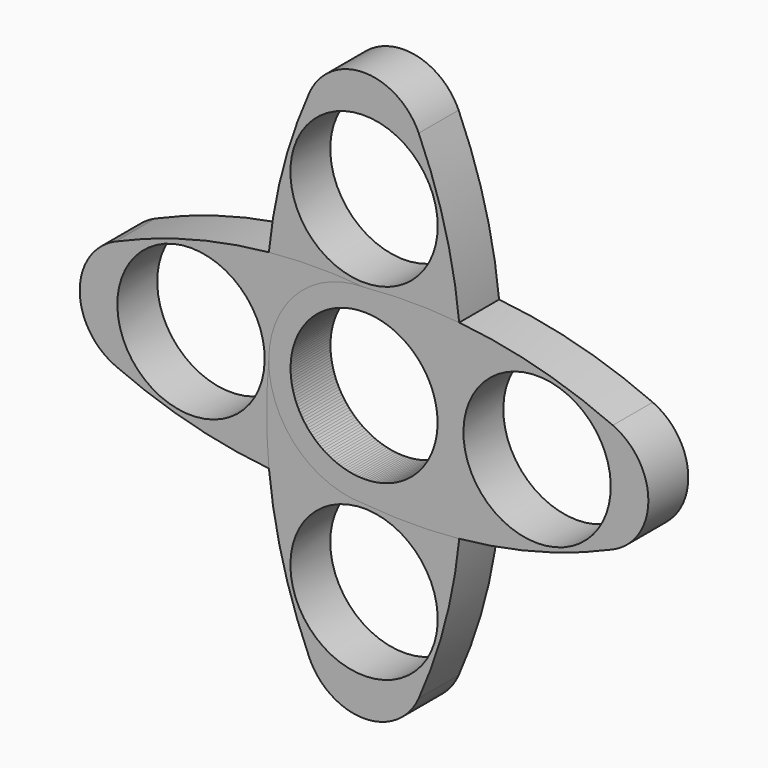
from build123d import *

# Parameters (mm, degrees)
F0_R     = 11.083206
F0_R_2   = 11.069476
F1_DEPTH = 7.5
F2_ANGLE = 90
F3_ANGLE = 90
F4_ANGLE = 90
F5_R     = 9


with BuildPart() as f1:
    # F0 (on Front) → F1 (new body)
    with BuildSketch(Plane.XZ):
        with BuildLine():
            ThreePointArc((-14.340545, 0), (0, 14.340545), (14.340545, 0))
            ThreePointArc((14.340545, 0), (11.929337, 27.099992), (0, 51.552281))
            ThreePointArc((0, 51.552281), (-11.933436, 27.101132), (-14.340545, 0))
        make_face()
        with Locations((0, 26.033875)):
            Circle(F0_R, mode=Mode.SUBTRACT)
        with BuildLine():
            ThreePointArc((-14.340545, 0), (0, -14.340545), (14.340545, 0))
            ThreePointArc((14.340545, 0), (0, 14.340545), (-14.340545, 0))
        make_face()
        Circle(F0_R_2, mode=Mode.SUBTRACT)
    extrude(amount=F1_DEPTH)

    # F5
    f5_edges = [f1.edges().sort_by_distance(p)[0] for p in [
        (0, -3.75, 51.552281),
    ]]
    fillet(f5_edges, radius=F5_R)


with BuildPart() as f2_1:
    # F2: copy of F1
    add(f1.part.rotate(Axis((0, -7.5, 0), (0, -1, 0)), F2_ANGLE))


with BuildPart() as f3_1:
    # F3: copy of F2_1
    add(f2_1.part.rotate(Axis((0, -7.5, 0), (0, -1, 0)), F3_ANGLE))


with BuildPart() as f4_1:
    # F4: copy of F3_1
    add(f3_1.part.rotate(Axis((0, -7.5, 0), (0, -1, 0)), F4_ANGLE))


solid = Compound([f1.part, f2_1.part, f3_1.part, f4_1.part])
